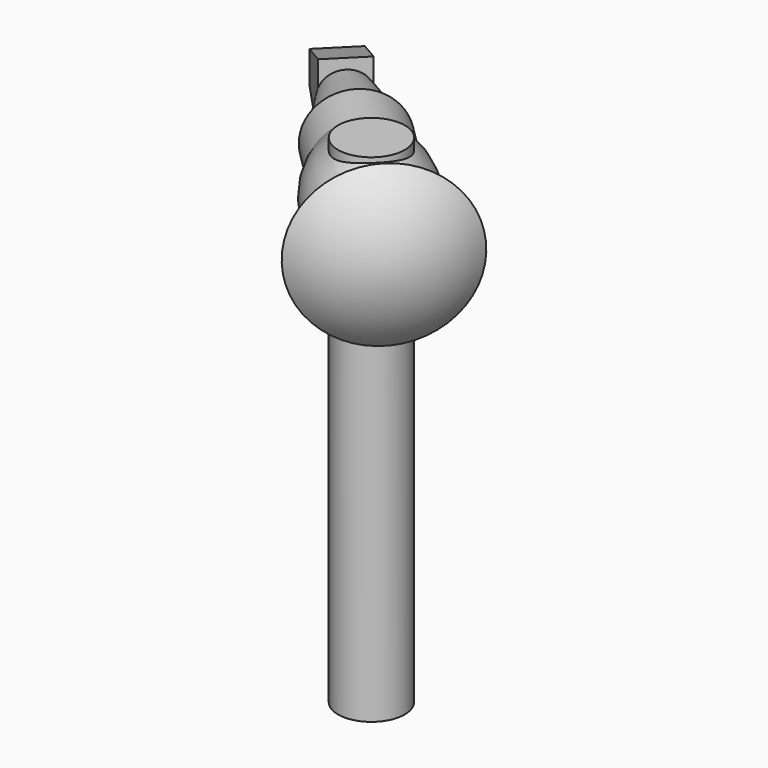
from build123d import *

# Parameters (mm, degrees)
F8_DEPTH  = 5
F9_DEPTH  = 5
F10_R     = 7.6519091013
F11_DEPTH = 99
F12_DEPTH = 15


with BuildPart() as f6:
    # F5 (on offset) → F6 (revolve)
    with BuildSketch(Plane(origin=(17.6776695297, 17.6776695297, 0), x_dir=(-0.7071067812, 0.7071067812, 0), z_dir=(0.7071067812, 0.7071067812, 0))):
        with BuildLine():
            Line((-82.2007035037, 49.919500947), (-75.3873662255, 49.919500947))
            Line((-75.3873662255, 49.919500947), (-11.9189445844, 49.919500947))
            Line((-11.9189445844, 49.919500947), (-11.9189445844, 55.2996545256))
            Line((-11.9189445844, 55.2996545256), (-25.3694628348, 58.2600160659))
            Line((-25.3694628348, 58.2600160659), (-29.349628467, 60.3313259006))
            Line((-29.349628467, 60.3313259006), (-41.0251509784, 60.3313259006))
            ThreePointArc((-41.0251509784, 60.3313259006), (-53.2737810815, 62.9286025134), (-65.5224111845, 60.3313259006))
            Line((-65.5224111845, 60.3313259006), (-73.8964080811, 62.7087488713))
            Line((-73.8964080811, 62.7087488713), (-73.8964080811, 68.3596432209))
            ThreePointArc((-73.8964080811, 68.3596432209), (-80.0288579522, 60.031377251), (-82.2007035037, 49.919500947))
        make_face()
    revolve(axis=Axis((48.5451117367, -13.1897726774, 49.919500947), (-0.7071067812, 0.7071067812, 0)))

    # F7 (on offset) → F8 (join)
    with BuildSketch(Plane(origin=(17.6776695297, 17.6776695297, 0), x_dir=(-0.7071067812, 0.7071067812, 0), z_dir=(0.7071067812, 0.7071067812, 0))):
        Polygon((2.3306398652, 52.3042623256), (-12.1975196525, 57.7270142357), (-12.1975196525, 41.5063718017), (2.3306398652, 45.2429535571), align=None)
    extrude(amount=F8_DEPTH)

    # F7 (on offset) → F9 (join)
    with BuildSketch(Plane(origin=(17.6776695297, 17.6776695297, 0), x_dir=(-0.7071067812, 0.7071067812, 0), z_dir=(0.7071067812, 0.7071067812, 0))):
        Polygon((2.3306398652, 52.3042623256), (-12.1975196525, 57.7270142357), (-12.1975196525, 41.5063718017), (2.3306398652, 45.2429535571), align=None)
    extrude(amount=-F9_DEPTH)

    # F10 (on offset) → F11 (join)
    with BuildSketch(Plane.XY.offset(-36)):
        with Locations((55.5105434031, -20.1552043437)):
            Circle(F10_R)
    extrude(amount=F11_DEPTH)

    # F10 (on offset) → F12 (join)
    with BuildSketch(Plane.XY.offset(-36)):
        with Locations((55.5105434031, -20.1552043437)):
            Circle(F10_R)
    extrude(amount=-F12_DEPTH)


solid = f6.part
